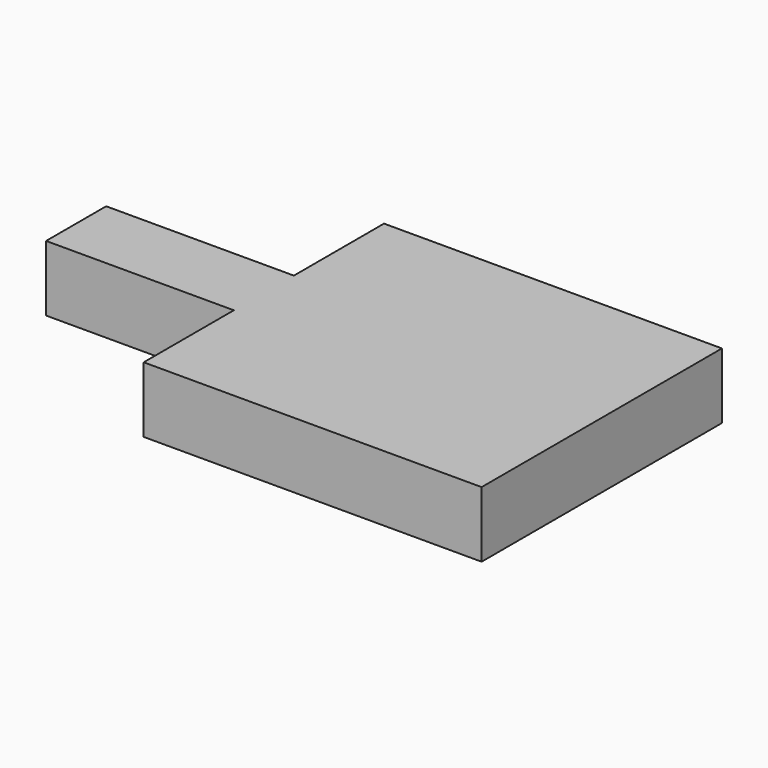
from build123d import *

# Parameters (mm, degrees)
F0_W          = 127
F0_H          = 50.8
F1_DEPTH      = 25.4
F1_DEPTH_BACK = 19.05


with BuildPart() as f1:
    # F0 (on Top) → F1 (new body, two sides)
    with BuildSketch(Plane.XY) as f1_sk:
        Polygon((0, 76.2), (0, 0), (228.6, 0), (228.6, 203.2), (0, 203.2), (0, 127), align=None)
        with Locations((-63.5, 101.6)):
            Rectangle(F0_W, F0_H)
    extrude(amount=F1_DEPTH)
    extrude(f1_sk.sketch, amount=-F1_DEPTH_BACK)


solid = f1.part
